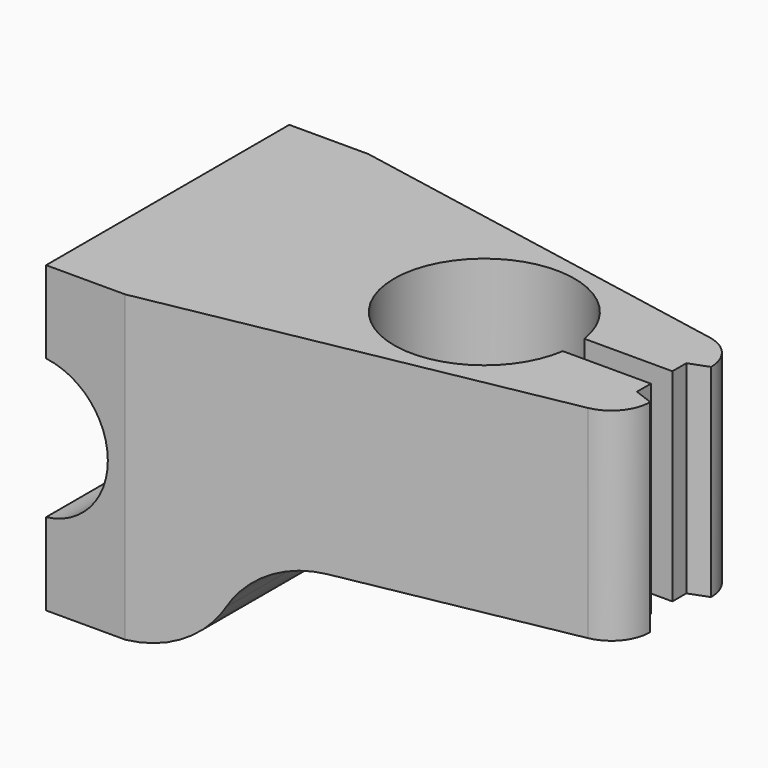
from build123d import *

# Parameters (mm, degrees)
F1_DEPTH = 24
F3_DEPTH = 48
F5_DEPTH = 48
F7_D     = 5
F7_DEPTH = 12
F7_TIP   = 1.5021515476


with BuildPart() as f1:
    # F0 (on Top) → F1 (new body, symmetric)
    with BuildSketch(Plane.XY):
        with BuildLine():
            Line((-24.6308942474, 24), (-37.1308942474, 24))
            Line((-37.1308942474, 24), (-37.1308942474, 0))
            Line((-37.1308942474, 0), (-37.1308942474, -24))
            Line((-37.1308942474, -24), (-24.6308942474, -24))
            Line((-24.6308942474, -24), (38.8693180593, -12.0302915725))
            ThreePointArc((38.8693180593, -12.0302915725), (42.4565903396, -9.9167044), (43.8691057526, -6))
            Line((43.8691057526, -6), (40.8691057526, -4.875))
            Line((40.8691057526, -4.875), (40.8691057526, -2.125))
            Line((40.8691057526, -2.125), (26.9597719895, -2.125))
            ThreePointArc((26.9597719895, -2.125), (-1.3808942474, 0), (26.9597719895, 2.125))
            Line((26.9597719895, 2.125), (40.8691057526, 2.125))
            Line((40.8691057526, 2.125), (40.8691057526, 4.875))
            Line((40.8691057526, 4.875), (43.8691057526, 6))
            ThreePointArc((43.8691057526, 6), (42.4565903396, 9.9167044), (38.8693180593, 12.0302915725))
            Line((38.8693180593, 12.0302915725), (-24.6308942474, 24))
        make_face()
    extrude(amount=F1_DEPTH, both=True)

    # F2 (on face) → F3 (cut, through all)
    with BuildSketch(Plane.XZ.offset(24)):
        with BuildLine():
            ThreePointArc((-10.7744877868, -16), (-16.6308942474, -21.8564064606), (-24.6308942474, -24))
            Line((-24.6308942474, -24), (48.1037423015, -24))
            Line((48.1037423015, -24), (48.1037423015, -8))
            Line((48.1037423015, -8), (3.0819186737, -8))
            ThreePointArc((3.0819186737, -8), (-4.9180813263, -10.1435935394), (-10.7744877868, -16))
        make_face()
    extrude(amount=-F3_DEPTH, mode=Mode.SUBTRACT)

    # F4 (on face) → F5 (cut, through all)
    with BuildSketch(Plane.XZ.offset(24)):
        with BuildLine():
            Line((-37.1308942474, 11.0286558564), (-37.1308942474, -11.0286558564))
            ThreePointArc((-37.1308942474, -11.0286558564), (-27.3808942474, 0), (-37.1308942474, 11.0286558564))
        make_face()
    extrude(amount=-F5_DEPTH, mode=Mode.SUBTRACT)

    # F7
    with Locations(Plane(origin=(-37.1308942474, 0, 0), x_dir=(0, -1, 0), z_dir=(-1, 0, 0))):
        with Locations((-15.5, 15.5), (15.5, 15.5), (15.5, -15.5), (-15.5, -15.5)):
            Hole(F7_D / 2, depth=F7_DEPTH)
            with Locations((0, 0, -(F7_DEPTH + F7_TIP / 2))):  # 118° drill point
                Cone(0, F7_D / 2, F7_TIP, mode=Mode.SUBTRACT)


solid = f1.part
